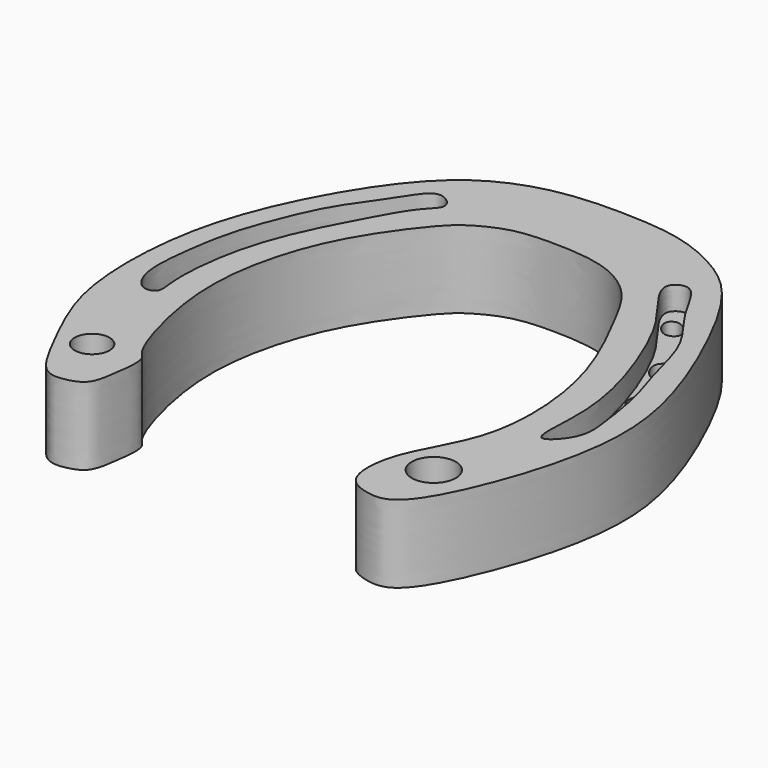
from build123d import *

# Parameters (mm, degrees)
F1_DEPTH = 5
F2_R     = 1.1210906937
F2_R_2   = 1.4204400746
F3_DEPTH = 5
F4_DEPTH = 1.5


with BuildPart() as f1:
    # F0 (on Top) → F1 (new body)
    with BuildSketch(Plane.XY):
        with BuildLine():
            add(Edge.make_bspline(
                [(0, 10.9798396006), (1.1630179106, 10.9855175231), (3.7990714785, 10.861453918), (6.4074106284, 9.0805046732), (7.7853984113, 6.5156755547), (10.0485454903, 2.1184729667), (11.1408236464, -2.6349197188), (10.9208062466, -7.9790657951), (8.1421456312, -11.850816405), (8.0645733598, -15.409539595), (9.7111076238, -16.1432662194), (11.7740174891, -16.3375583169), (14.2666242955, -11.508422251), (16.1096517267, -5.054431041), (15.8394654063, 0.8110447257), (12.8713863213, 7.9029569948), (10.5662370192, 11.8620322378), (8.5241190672, 13.8450966047), (5.0932483167, 15.5151446909), (1.1522703494, 15.7982298069), (-3.3225175305, 15.7099851889), (-7.9032767726, 13.9100138273), (-11.4667307417, 9.33499708), (-14.1163252728, 3.8605170546), (-15.3425953557, -1.3771737735), (-15.2779953015, -8.0989308787), (-12.936563617, -12.7053179877), (-11.234361686, -16.1169172597), (-9.6916446426, -16.0158357338), (-8.4699301196, -15.5981386774), (-8.1815235956, -14.0245539128), (-7.8811812877, -11.726960836), (-8.9216293181, -11.214796969), (-10.7603064824, -4.8226033139), (-10.0578239277, 0.7706257388), (-8.3039333565, 5.234064681), (-5.5503407995, 8.8947604058), (-4.4270204324, 9.8468818001), (-2.4742484476, 10.8745301352), (-0.9592349006, 10.9751565589), (0, 10.9798396006)],
                knots=[0, 0, 0, 0, 0.0262539687, 0.0496003257, 0.0725210676, 0.1024999178, 0.1327772413, 0.1636164541, 0.1933368948, 0.2169491466, 0.2335299323, 0.250910237, 0.2810133673, 0.3167242621, 0.3496097215, 0.3871839587, 0.4160501265, 0.4384284288, 0.4643732228, 0.4914119107, 0.5199766752, 0.5494398551, 0.5818161815, 0.6151658743, 0.6467618662, 0.6814713148, 0.7129769703, 0.7379951524, 0.7532145854, 0.7675619991, 0.7845403975, 0.8042836028, 0.8173921726, 0.8511247156, 0.8842949441, 0.9142497606, 0.9426317777, 0.9590556695, 0.9783462294, 1, 1, 1, 1], degree=3))
        make_face()
    extrude(amount=F1_DEPTH)

    # F2 (on face) → F3 (cut)
    with BuildSketch(Plane.XY.offset(5)):
        with Locations((-11.0561456531, -12.1101532131)):
            Circle(F2_R)
        with Locations((10.9540801495, -12.0821641758)):
            Circle(F2_R_2)
        with BuildLine():
            add(Edge.make_bspline(
                [(13.4431235492, -0.6040497101), (13.7852378863, -0.5685058402), (14.4705504004, -2.0338446788), (12.4693465348, -2.3682649673), (13.0829629153, -0.6414684947), (13.4431235492, -0.6040497101)],
                knots=[0, 0, 0, 0, 0.3413033798, 0.6406931008, 1, 1, 1, 1], degree=3))
        make_face()
        with BuildLine():
            add(Edge.make_bspline(
                [(12.6436706632, 2.9934830964), (12.9206696742, 2.871633662), (13.2668845239, 1.7970472454), (12.2450844293, 1.3646397831), (11.838568252, 2.6405281368), (12.4269207156, 3.0888294964), (12.6436706632, 2.9934830964)],
                knots=[0, 0, 0, 0, 0.2862011233, 0.5050998107, 0.7760494586, 1, 1, 1, 1], degree=3))
        make_face()
        with BuildLine():
            add(Edge.make_bspline(
                [(11.3873891532, 6.533912383), (11.729679603, 6.4580456158), (12.2317111977, 5.5900467789), (11.4759815781, 4.4059146571), (10.2932593495, 6.0860193588), (11.0908178558, 6.5996457554), (11.3873891532, 6.533912383)],
                knots=[0, 0, 0, 0, 0.2609750579, 0.4870922202, 0.773882936, 1, 1, 1, 1], degree=3))
        make_face()
        with BuildLine():
            add(Edge.make_bspline(
                [(8.8462755084, 10.3598600253), (9.2520216357, 10.2688208287), (10.0834088515, 9.347351137), (8.8557387603, 8.6593697269), (7.9103613977, 10.0396798814), (8.5421006249, 10.4281091969), (8.8462755084, 10.3598600253)],
                knots=[0, 0, 0, 0, 0.2826951098, 0.509608426, 0.7880725254, 1, 1, 1, 1], degree=3))
        make_face()
        with BuildLine():
            add(Edge.make_bspline(
                [(-8.9415265247, 9.4462009147), (-8.9072234567, 9.1341717857), (-8.1075334704, 8.7235951807), (-7.4318426166, 9.8892026545), (-8.1362331055, 10.8321703803), (-8.9840592461, 9.8330889916), (-8.9415265247, 9.4462009147)],
                knots=[0, 0, 0, 0, 0.2325617698, 0.4941680238, 0.7116443065, 1, 1, 1, 1], degree=3))
        make_face()
        with BuildLine():
            add(Edge.make_bspline(
                [(-10.7688447461, 6.3911532052), (-10.4507119412, 6.4966758244), (-9.6946369376, 6.0286114838), (-10.4665391404, 4.634772397), (-11.7845755387, 5.1530256988), (-11.1574027795, 6.2622709874), (-10.7688447461, 6.3911532052)],
                knots=[0, 0, 0, 0, 0.2272676383, 0.493470545, 0.7224220035, 1, 1, 1, 1], degree=3))
        make_face()
        with BuildLine():
            add(Edge.make_bspline(
                [(-12.3677486554, 3.0505869072), (-12.0380787947, 3.2344654989), (-10.9316252027, 2.801856742), (-11.7477880611, 1.0565404094), (-12.9695372914, 1.5966269556), (-12.7370213576, 2.8446192027), (-12.3677486554, 3.0505869072)],
                knots=[0, 0, 0, 0, 0.2414244943, 0.5125434392, 0.7295734733, 1, 1, 1, 1], degree=3))
        make_face()
        with BuildLine():
            add(Edge.make_bspline(
                [(-13.3099593222, -0.6040497101), (-13.0787777112, -0.4025172139), (-12.0148388516, -0.5896614428), (-12.5180371452, -2.3098974345), (-13.4451435682, -1.845814359), (-13.565465391, -0.8267870447), (-13.3099593222, -0.6040497101)],
                knots=[0, 0, 0, 0, 0.2437727458, 0.5229206154, 0.7305779828, 1, 1, 1, 1], degree=3))
        make_face()
    extrude(amount=-F3_DEPTH, mode=Mode.SUBTRACT)

    # F2 (on face) → F4 (cut)
    with BuildSketch(Plane.XY.offset(5)):
        with BuildLine():
            add(Edge.make_bspline(
                [(-12.8507027403, -5.6824591011), (-13.2295548702, -5.5493744269), (-13.9561230589, -4.4449706055), (-13.8153274234, -1.8388255183), (-13.3035555861, 1.4958903183), (-12.4671509218, 3.8919785003), (-11.1522042573, 7.1681853039), (-9.0681124256, 9.8009090351), (-7.8234311234, 12.0675410401), (-6.1687084623, 10.7670365376), (-7.4481741439, 9.7744647622), (-8.6673934986, 7.545749132), (-10.0328824089, 5.0400321126), (-11.1585885181, 2.4429194227), (-11.9601729911, -0.3639079962), (-12.3057902722, -4.0325044302), (-11.8595207847, -5.5991535913), (-12.579745999, -5.7776418565), (-12.8507027403, -5.6824591011)],
                knots=[0, 0, 0, 0, 0.0492079927, 0.1161175684, 0.1915987786, 0.2574533117, 0.3339713007, 0.4119392726, 0.4710164964, 0.5163418961, 0.561480529, 0.6278843368, 0.6980823534, 0.7664827671, 0.8379520491, 0.9175017807, 0.9648062231, 1, 1, 1, 1], degree=3))
        make_face()
        with BuildLine():
            add(Edge.make_bspline(
                [(-13.3099593222, -0.6040497101), (-13.0787777112, -0.4025172139), (-12.0148388516, -0.5896614428), (-12.5180371452, -2.3098974345), (-13.4451435682, -1.845814359), (-13.565465391, -0.8267870447), (-13.3099593222, -0.6040497101)],
                knots=[0, 0, 0, 0, 0.2437727458, 0.5229206154, 0.7305779828, 1, 1, 1, 1], degree=3))
        make_face(mode=Mode.SUBTRACT)
        with BuildLine():
            add(Edge.make_bspline(
                [(-12.3677486554, 3.0505869072), (-12.0380787947, 3.2344654989), (-10.9316252027, 2.801856742), (-11.7477880611, 1.0565404094), (-12.9695372914, 1.5966269556), (-12.7370213576, 2.8446192027), (-12.3677486554, 3.0505869072)],
                knots=[0, 0, 0, 0, 0.2414244943, 0.5125434392, 0.7295734733, 1, 1, 1, 1], degree=3))
        make_face(mode=Mode.SUBTRACT)
        with BuildLine():
            add(Edge.make_bspline(
                [(-10.7688447461, 6.3911532052), (-10.4507119412, 6.4966758244), (-9.6946369376, 6.0286114838), (-10.4665391404, 4.634772397), (-11.7845755387, 5.1530256988), (-11.1574027795, 6.2622709874), (-10.7688447461, 6.3911532052)],
                knots=[0, 0, 0, 0, 0.2272676383, 0.493470545, 0.7224220035, 1, 1, 1, 1], degree=3))
        make_face(mode=Mode.SUBTRACT)
        with BuildLine():
            add(Edge.make_bspline(
                [(-8.9415265247, 9.4462009147), (-8.9072234567, 9.1341717857), (-8.1075334704, 8.7235951807), (-7.4318426166, 9.8892026545), (-8.1362331055, 10.8321703803), (-8.9840592461, 9.8330889916), (-8.9415265247, 9.4462009147)],
                knots=[0, 0, 0, 0, 0.2325617698, 0.4941680238, 0.7116443065, 1, 1, 1, 1], degree=3))
        make_face(mode=Mode.SUBTRACT)
        with BuildLine():
            add(Edge.make_bspline(
                [(13.0222924054, -5.9540914372), (13.3138212731, -6.0679380515), (14.6494561734, -4.6784888823), (14.4313042429, -2.6484739312), (13.9347019965, 0.6771585612), (12.9154080015, 3.367684474), (12.2909710558, 6.5455201076), (10.0372174736, 9.0003496489), (8.86988746, 11.9006944643), (7.1842403925, 11.0294850415), (8.3014863195, 9.1949698332), (9.9356107452, 7.2671510783), (11.5329327191, 3.6054502068), (12.4921820445, 0.5853495755), (13.0498867716, -2.6983665407), (12.6422559998, -5.8056812353), (13.0222924054, -5.9540914372)],
                knots=[0, 0, 0, 0, 0.056618133, 0.1205809442, 0.2000253985, 0.2749360015, 0.3518554581, 0.433581774, 0.504644293, 0.5486891178, 0.6057691638, 0.6775676083, 0.7641764473, 0.8418937474, 0.9261927235, 1, 1, 1, 1], degree=3))
        make_face()
        with BuildLine():
            add(Edge.make_bspline(
                [(13.4431235492, -0.6040497101), (13.7852378863, -0.5685058402), (14.4705504004, -2.0338446788), (12.4693465348, -2.3682649673), (13.0829629153, -0.6414684947), (13.4431235492, -0.6040497101)],
                knots=[0, 0, 0, 0, 0.3413033798, 0.6406931008, 1, 1, 1, 1], degree=3))
        make_face(mode=Mode.SUBTRACT)
        with BuildLine():
            add(Edge.make_bspline(
                [(12.6436706632, 2.9934830964), (12.9206696742, 2.871633662), (13.2668845239, 1.7970472454), (12.2450844293, 1.3646397831), (11.838568252, 2.6405281368), (12.4269207156, 3.0888294964), (12.6436706632, 2.9934830964)],
                knots=[0, 0, 0, 0, 0.2862011233, 0.5050998107, 0.7760494586, 1, 1, 1, 1], degree=3))
        make_face(mode=Mode.SUBTRACT)
        with BuildLine():
            add(Edge.make_bspline(
                [(11.3873891532, 6.533912383), (11.729679603, 6.4580456158), (12.2317111977, 5.5900467789), (11.4759815781, 4.4059146571), (10.2932593495, 6.0860193588), (11.0908178558, 6.5996457554), (11.3873891532, 6.533912383)],
                knots=[0, 0, 0, 0, 0.2609750579, 0.4870922202, 0.773882936, 1, 1, 1, 1], degree=3))
        make_face(mode=Mode.SUBTRACT)
        with BuildLine():
            add(Edge.make_bspline(
                [(8.8462755084, 10.3598600253), (9.2520216357, 10.2688208287), (10.0834088515, 9.347351137), (8.8557387603, 8.6593697269), (7.9103613977, 10.0396798814), (8.5421006249, 10.4281091969), (8.8462755084, 10.3598600253)],
                knots=[0, 0, 0, 0, 0.2826951098, 0.509608426, 0.7880725254, 1, 1, 1, 1], degree=3))
        make_face(mode=Mode.SUBTRACT)
    extrude(amount=-F4_DEPTH, mode=Mode.SUBTRACT)


solid = f1.part
